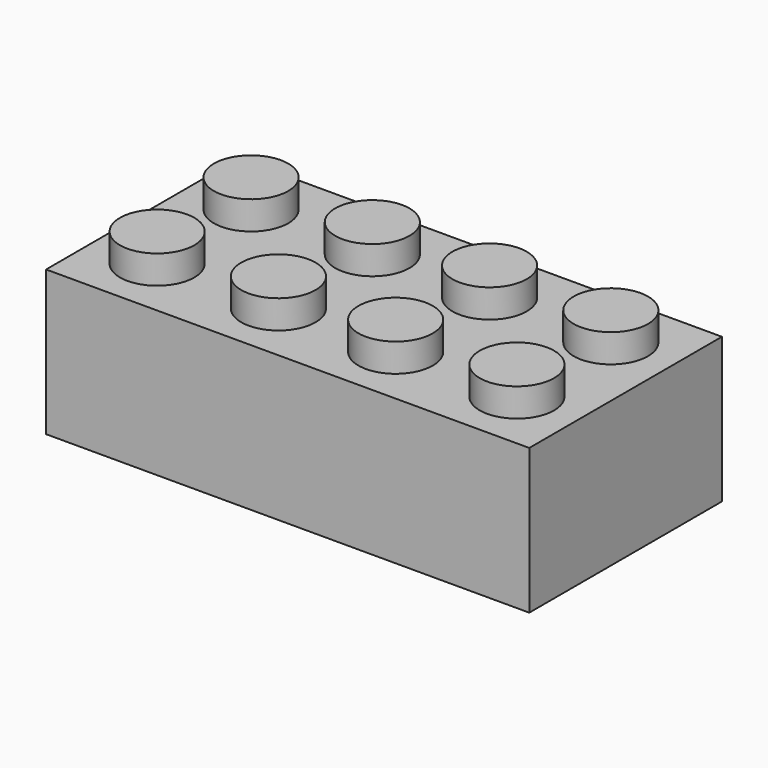
from build123d import *

# Parameters (mm, degrees)
F0_W      = 31.7754
F0_H      = 15.8369
F1_DEPTH  = 9.5377
F2_R      = 2.44475
F3_DEPTH  = 1.8669
F5_W      = 30.5689
F5_H      = 14.6304
F6_DEPTH  = 8.382
F7_R      = 3.27025
F8_DEPTH  = 8.382
F9_R      = 2.47015
F10_DEPTH = 8.382


with BuildPart() as f1:
    # F0 (on Top) → F1 (new body)
    with BuildSketch(Plane.XY):
        Rectangle(F0_W, F0_H)
    extrude(amount=F1_DEPTH)

    # F2 (on face) → F3 (join)
    with BuildSketch(Plane.XY.offset(9.5377)):
        with Locations((-11.83005, 3.8608)):
            Circle(F2_R)
        with Locations((-3.85445, 3.8608)):
            Circle(F2_R)
        with Locations((3.85445, 3.8608)):
            Circle(F2_R)
        with Locations((11.83005, 3.8608)):
            Circle(F2_R)
        with Locations((-11.83005, -3.8608)):
            Circle(F2_R)
        with Locations((-3.85445, -3.8608)):
            Circle(F2_R)
        with Locations((3.85445, -3.8608)):
            Circle(F2_R)
        with Locations((11.83005, -3.8608)):
            Circle(F2_R)
    extrude(amount=F3_DEPTH)

    # F5 (on plane+point) → F6 (cut)
    with BuildSketch(Plane(origin=(0, 0, 0), x_dir=(1, 0, 0), z_dir=(0, 0, -1))):
        Rectangle(F5_W, F5_H)
    extrude(amount=-F6_DEPTH, mode=Mode.SUBTRACT)

    # F7 (on face) → F8 (join)
    with BuildSketch(Plane(origin=(0, 0, 8.382), x_dir=(1, 0, 0), z_dir=(0, 0, -1))):
        with Locations((-7.8867, 0)):
            Circle(F7_R)
        Circle(F7_R)
        with Locations((7.8867, 0)):
            Circle(F7_R)
    extrude(amount=F8_DEPTH)

    # F9 (on face) → F10 (cut)
    with BuildSketch(Plane(origin=(0, 0, 0), x_dir=(1, 0, 0), z_dir=(0, 0, -1))):
        with Locations((-7.8867, 0)):
            Circle(F9_R)
        Circle(F9_R)
        with Locations((7.8867, 0)):
            Circle(F9_R)
    extrude(amount=-F10_DEPTH, mode=Mode.SUBTRACT)


solid = f1.part
